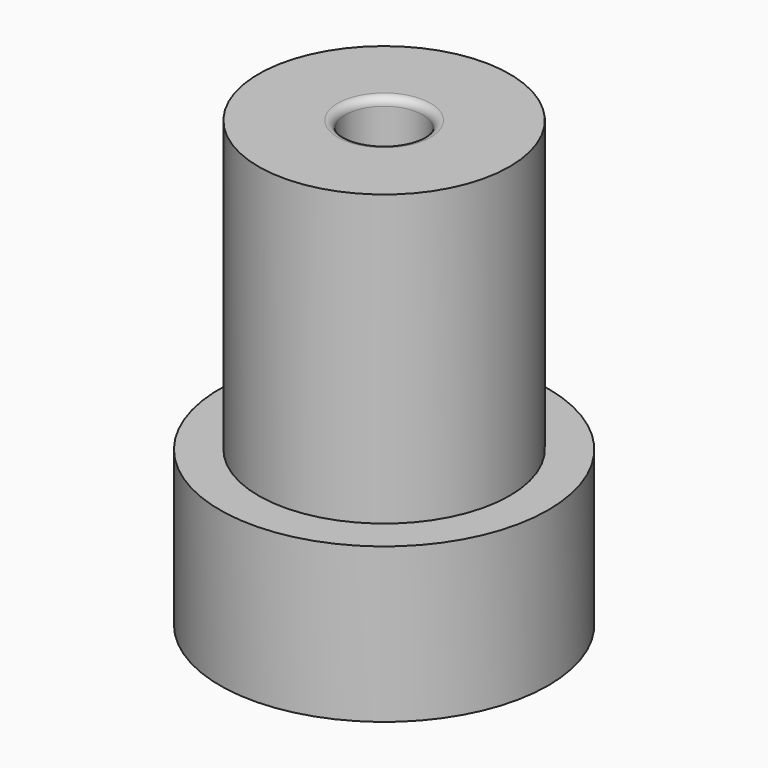
from build123d import *

# Parameters (mm, degrees)
F0_R     = 3.25
F0_R_2   = 1
F1_DEPTH = 11.5
F0_R_3   = 4.25
F2_DEPTH = 4
F3_R     = 0.2
F4_R     = 0.5


with BuildPart() as f1:
    # F0 (on Top) → F1 (new body)
    with BuildSketch(Plane.XY):
        Circle(F0_R)
        Circle(F0_R_2, mode=Mode.SUBTRACT)
    extrude(amount=F1_DEPTH)

    # F0 (on Top) → F2 (join)
    with BuildSketch(Plane.XY):
        Circle(F0_R_3)
        Circle(F0_R, mode=Mode.SUBTRACT)
    extrude(amount=F2_DEPTH)

    # F3
    f3_edges = [f1.edges().sort_by_distance(p)[0] for p in [
        (-1, 0, 11.5),
    ]]
    fillet(f3_edges, radius=F3_R)

    # F4
    f4_edges = [f1.edges().sort_by_distance(p)[0] for p in [
        (-1, 0, 0),
    ]]
    fillet(f4_edges, radius=F4_R)


solid = f1.part
